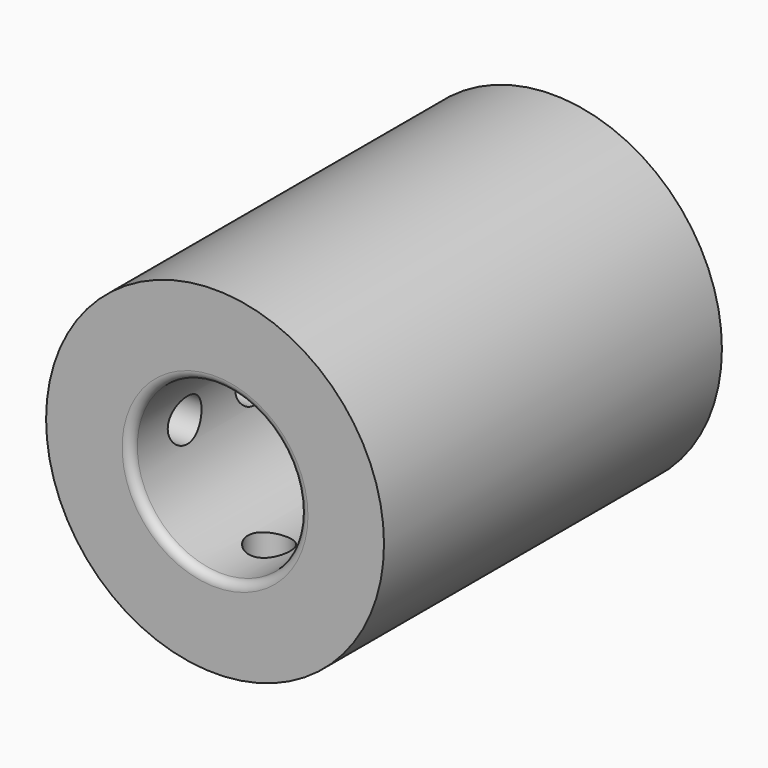
from build123d import *

# Parameters (mm, degrees)
F0_R     = 20
F0_R_2   = 9.5
F1_DEPTH = 50
F2_R     = 10
F3_DEPTH = 25
F5_D     = 5
F5_DEPTH = 50
F5_TIP   = 1.5021515476
F7_D     = 5
F7_DEPTH = 50
F7_TIP   = 1.5021515476
F8_R     = 1


with BuildPart() as f1:
    # F0 (on Front) → F1 (new body)
    with BuildSketch(Plane.XZ):
        Circle(F0_R)
        Circle(F0_R_2, mode=Mode.SUBTRACT)
    extrude(amount=F1_DEPTH)

    # F2 (on face) → F3 (cut)
    with BuildSketch(Plane.XZ.offset(50)):
        Circle(F2_R)
    extrude(amount=-F3_DEPTH, mode=Mode.SUBTRACT)

    # F5 (one way)
    with BuildSketch(Plane.YZ):
        with Locations((-42, 0), (-32, 0), (-18, 0), (-8, 0)):
            Circle(F5_D / 2)
    extrude(amount=-F5_DEPTH, mode=Mode.SUBTRACT)
    with Locations(Plane.YZ):
        with Locations((-42, 0), (-32, 0), (-18, 0), (-8, 0)):
            with Locations((0, 0, -(F5_DEPTH + F5_TIP / 2))):  # 118° drill point
                Cone(0, F5_D / 2, F5_TIP, mode=Mode.SUBTRACT)

    # F7 (one way)
    with BuildSketch(Plane.XY):
        with Locations((0, -8), (0, -18), (0, -32), (0, -42)):
            Circle(F7_D / 2)
    extrude(amount=-F7_DEPTH, mode=Mode.SUBTRACT)
    with Locations(Plane.XY):
        with Locations((0, -8), (0, -18), (0, -32), (0, -42)):
            with Locations((0, 0, -(F7_DEPTH + F7_TIP / 2))):  # 118° drill point
                Cone(0, F7_D / 2, F7_TIP, mode=Mode.SUBTRACT)

    # F8
    f8_edges = [f1.edges().sort_by_distance(p)[0] for p in [
        (-9.5, 0, 0),
        (-10, -50, 0),
    ]]
    fillet(f8_edges, radius=F8_R)


solid = f1.part
